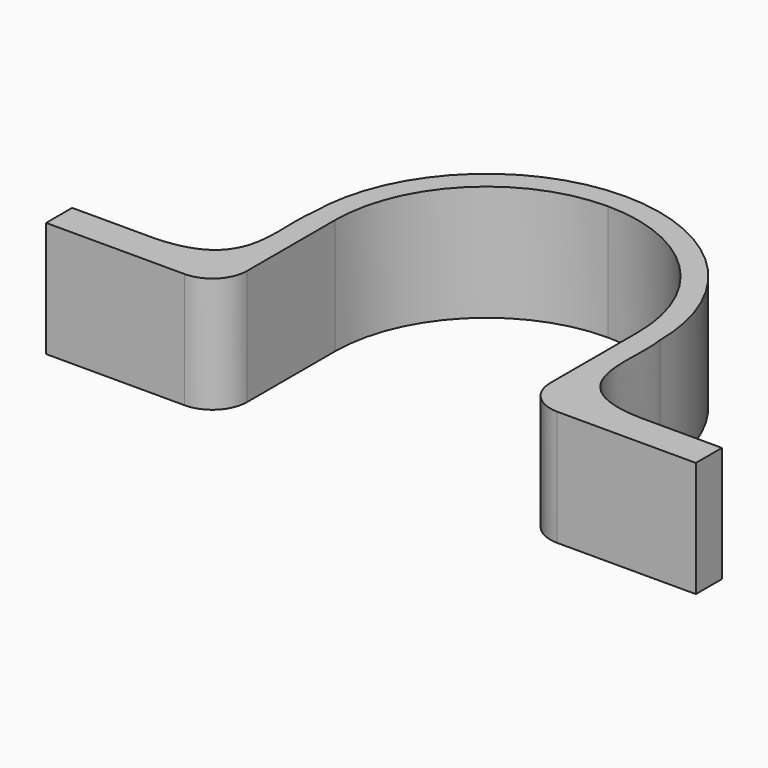
from build123d import *

# Parameters (mm, degrees)
F1_DEPTH = 12.7


with BuildPart() as f1:
    # F0 (on Top) → F1 (new body)
    with BuildSketch(Plane.XY):
        with BuildLine():
            ThreePointArc((0, 16.66875), (11.786586, 11.786586), (16.66875, 0))
            Line((16.66875, 0), (16.66875, -12.065))
            ThreePointArc((16.66875, -12.065), (17.784673, -14.759077), (20.47875, -15.875))
            Line((20.47875, -15.875), (35.71875, -15.875))
            Line((35.71875, -15.875), (35.71875, -12.293821))
            Line((35.71875, -12.293821), (26.822409, -12.293821))
            add(Edge.make_bspline(
                [(19.05, 0), (19.807434, -4.250921), (16.66875, -12.065), (26.822409, -12.293821)],
                knots=[0, 0, 0, 0, 14.544702, 14.544702, 14.544702, 14.544702], degree=3))
            ThreePointArc((19.05, 0), (13.470384, 13.470384), (0, 19.05))
            ThreePointArc((0, 19.05), (-13.470384, 13.470384), (-19.05, 0))
            add(Edge.make_bspline(
                [(-19.05, 0), (-19.807434, -4.250921), (-16.66875, -12.065), (-26.822409, -12.293821)],
                knots=[0, 0, 0, 0, 14.544702, 14.544702, 14.544702, 14.544702], degree=3))
            Line((-26.822409, -12.293821), (-35.71875, -12.293821))
            Line((-35.71875, -12.293821), (-35.71875, -15.875))
            Line((-35.71875, -15.875), (-20.47875, -15.875))
            ThreePointArc((-20.47875, -15.875), (-17.784673, -14.759077), (-16.66875, -12.065))
            Line((-16.66875, -12.065), (-16.66875, 0))
            ThreePointArc((-16.66875, 0), (-11.786586, 11.786586), (0, 16.66875))
        make_face()
    extrude(amount=F1_DEPTH)


solid = f1.part
